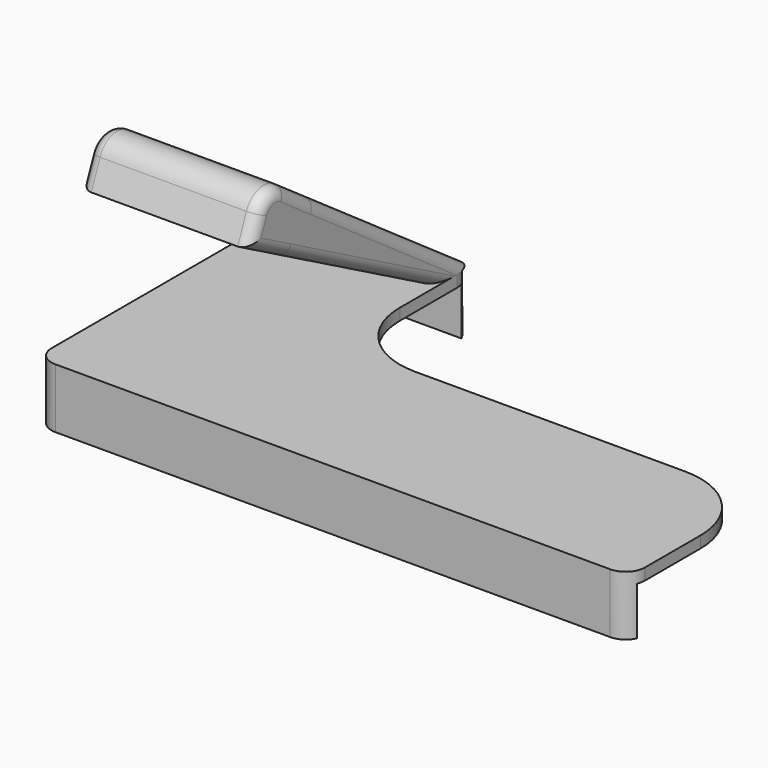
from build123d import *

# Parameters (mm, degrees)
F1_DEPTH  = 3
F0_W      = 40
F0_H      = 3
F2_DEPTH  = 15.5
F3_W      = 80.5
F3_H      = 12.5
F4_DEPTH  = 4
F5_W      = 6
F5_H      = 80.5
F6_DEPTH  = 2
F7_R      = 4.5
F8_DEPTH  = 25
F10_DEPTH = 44
F11_W     = 20
F11_H     = 5
F12_DEPTH = 2
F13_W     = 19.6
F13_H     = 4.8
F14_DEPTH = 1.9
F15_R     = 6
F16_R     = 3
F17_R     = 5
F18_SIZE  = 1
F19_R     = 5
F20_R     = 5


with BuildPart() as f1:
    # F0 (on Top) → F1 (new body)
    with BuildSketch(Plane.XY):
        with BuildLine():
            Line((-4.9331504512, 80.5), (-4.9331504512, 0))
            Line((-4.9331504512, 0), (35.0668495488, 0))
            Line((35.0668495488, 0), (145.0668495488, 0))
            Line((145.0668495488, 0), (145.0668495488, 20))
            ThreePointArc((145.0668495488, 20), (139.2089851725, 34.1421356237), (125.0668495488, 40))
            Line((125.0668495488, 40), (55.0668495488, 40))
            ThreePointArc((55.0668495488, 40), (40.9247139251, 45.8578643763), (35.0668495488, 60))
            Line((35.0668495488, 60), (35.0668495488, 80.5))
            Line((35.0668495488, 80.5), (-4.9331504512, 80.5))
        make_face()
    extrude(amount=-F1_DEPTH)

    # F0 (on Top) → F2 (join)
    with BuildSketch(Plane.XY):
        with Locations((15.0668495488, 82)):
            Rectangle(F0_W, F0_H)
        Polygon((35.0668495488, 0), (-4.9331504512, 0), (-4.9331504512, -3), (145.0668495488, -3), (145.0668495488, 0), align=None)
    extrude(amount=-F2_DEPTH)

    # F3 (on face) → F4 (join)
    with BuildSketch(Plane(origin=(-4.9331504512, 0, 0), x_dir=(0, -1, 0), z_dir=(-1, 0, 0))):
        with Locations((-40.25, -9.25)):
            Rectangle(F3_W, F3_H)
        Polygon((-83.5, 0), (-83.5, -15.5), (-80.5, -15.5), (-80.5, -3), (0, -3), (0, -15.5), (3, -15.5), (3, 0), align=None)
    extrude(amount=F4_DEPTH)

    # F5 (on face) → F6 (join)
    with BuildSketch(Plane(origin=(0, 0, -15.5), x_dir=(1, 0, 0), z_dir=(0, 0, -1))):
        with Locations((-1.9331504512, -40.25)):
            Rectangle(F5_W, F5_H)
    extrude(amount=-F6_DEPTH)

    # F7 (on face) → F8 (cut)
    with BuildSketch(Plane(origin=(-8.9331504512, 0, 0), x_dir=(0, -1, 0), z_dir=(-1, 0, 0))):
        with Locations((-67, -7.75)):
            Circle(F7_R)
    extrude(amount=-F8_DEPTH, mode=Mode.SUBTRACT)

    # F11 (on face) → F12 (cut)
    with BuildSketch(Plane(origin=(0, 83.5, 0), x_dir=(-1, 0, 0), z_dir=(0, 1, 0))):
        with Locations((-13.0668495488, -2.5)):
            Rectangle(F11_W, F11_H)
    extrude(amount=-F12_DEPTH, mode=Mode.SUBTRACT)

    # F17
    f17_edges = [f1.edges().sort_by_distance(p)[0] for p in [
        (-8.93315, 83.5, -7.75),
        (35.06685, 83.5, -7.75),
    ]]
    fillet(f17_edges, radius=F17_R)

    # F18
    f18_edges = [f1.edges().sort_by_distance(p)[0] for p in [
        (1.06685, 40.25, -13.5),
    ]]
    chamfer(f18_edges, length=F18_SIZE)

    # F19
    f19_edges = [f1.edges().sort_by_distance(p)[0] for p in [
        (-8.93315, -3, -7.75),
    ]]
    fillet(f19_edges, radius=F19_R)

    # F20
    f20_edges = [f1.edges().sort_by_distance(p)[0] for p in [
        (145.06685, -3, -7.75),
    ]]
    fillet(f20_edges, radius=F20_R)


with BuildPart() as f10:
    # F9 (on face) → F10 (new body)
    with BuildSketch(Plane(origin=(-8.9331504512, 0, 0), x_dir=(0, -1, 0), z_dir=(-1, 0, 0))):
        Polygon((-32.6238580844, 35.6238580844), (-83.5, 0), (-71.5, 0), (-23.2654577068, 26.2654577068), align=None)
        Polygon((-16.8503914992, 46.668558291), (-32.6238580844, 35.6238580844), (-23.2654577068, 26.2654577068), (-11.1649248647, 32.8546367159), align=None)
    extrude(amount=-F10_DEPTH)

    # F13 (on face) → F14 (join)
    with BuildSketch(Plane(origin=(0, 83.5, 0), x_dir=(-1, 0, 0), z_dir=(0, 1, 0))):
        with Locations((-13.0668495488, -2.4)):
            Rectangle(F13_W, F13_H)
    extrude(amount=-F14_DEPTH)

    # F15
    f15_edges = [f10.edges().sort_by_distance(p)[0] for p in [
        (13.06685, 16.850391, 46.668558),
    ]]
    fillet(f15_edges, radius=F15_R)

    # F16
    f16_edges = [f10.edges().sort_by_distance(p)[0] for p in [
        (-8.93315, 53.244202, 21.185338),
        (35.06685, 53.244202, 21.185338),
        (-8.93315, 41.332462, 16.427318),
        (35.06685, 41.332462, 16.427318),
    ]]
    fillet(f16_edges, radius=F16_R)


solid = Compound([f1.part, f10.part])
